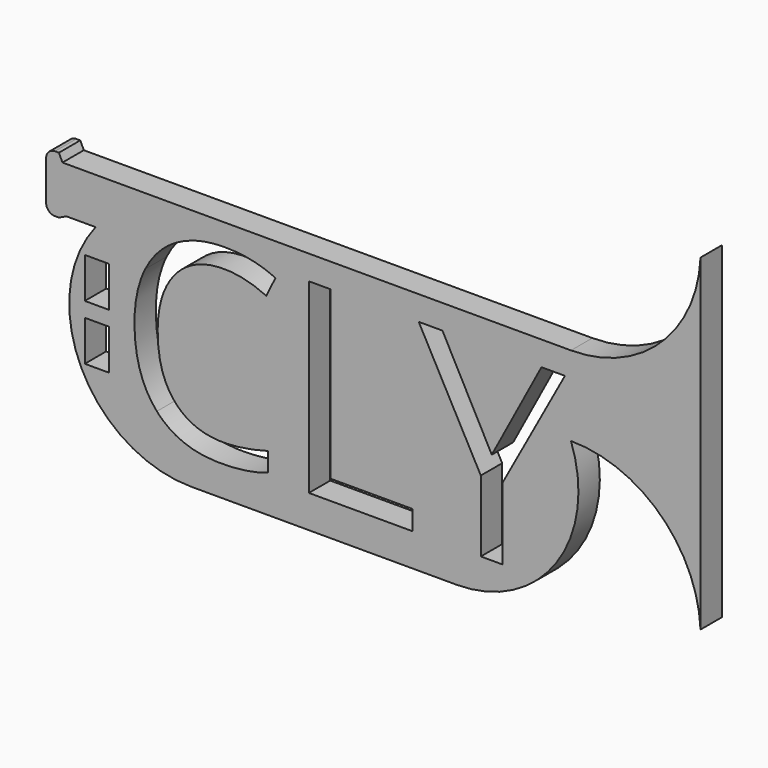
from build123d import *

# Parameters (mm, degrees)
F0_W     = 2.7374038473
F0_H     = 4.5464726281
F1_DEPTH = 3


with BuildPart() as f1:
    # F0 (on Front) → F1 (new body)
    with BuildSketch(Plane.XZ):
        with BuildLine():
            Line((-13.9879264009, 8.4983842463), (-10.7078288449, 8.4983842463))
            ThreePointArc((-10.7078288449, 8.4983842463), (-12.3096819162, -5.9457433928), (0, -13.6704108706))
            Line((0, -13.6704108706), (29.832560569, -13.6704108706))
            ThreePointArc((29.832560569, -13.6704108706), (41.0439649972, -7.8220549805), (42.6626390029, 4.7190275219))
            ThreePointArc((42.6626390029, 4.7190275219), (52.7277631814, 0.6811115523), (57.2114773095, -9.193492122))
            Line((57.2114773095, -9.193492122), (57.2114773095, 27.5829305145))
            ThreePointArc((57.2114773095, 27.5829305145), (52.7277631814, 17.7083268402), (42.6626390029, 13.6704108706))
            Line((42.6626390029, 13.6704108706), (29.832560569, 13.6704108706))
            Line((29.832560569, 13.6704108706), (0, 13.6704108706))
            Line((0, 13.6704108706), (-14.4307379611, 13.6704108706))
            Line((-14.4307379611, 13.6704108706), (-14.8297163701, 14.5122008398))
            Line((-14.8297163701, 14.5122008398), (-15.268201828, 14.5122008398))
            ThreePointArc((-15.268201828, 14.5122008398), (-15.9753086092, 14.219307621), (-16.268201828, 13.5122008398))
            Line((-16.268201828, 13.5122008398), (-16.268201828, 9.0994058373))
            ThreePointArc((-16.268201828, 9.0994058373), (-15.9753086092, 8.3922990562), (-15.268201828, 8.0994058373))
            Line((-15.268201828, 8.0994058373), (-14.8297163701, 8.0994058373))
            Line((-14.8297163701, 8.0994058373), (-13.9879264009, 8.4983842463))
        make_face()
        with Locations((-10.5523099191, -3.12910098)):
            Rectangle(F0_W, F0_H, mode=Mode.SUBTRACT)
        with BuildLine():
            add(Edge.make_bspline(
                [(8.4533115607, 7.9434605246), (6.0766133419, 9.056249864), (3.699915123, 9.056249864)],
                knots=[0, 0, 0, 1, 1, 1], degree=2))
            add(Edge.make_bspline(
                [(3.699915123, 9.056249864), (0.2516419847, 9.056249864), (-1.7449676943, 6.7596907952)],
                knots=[0, 0, 0, 1, 1, 1], degree=2))
            add(Edge.make_bspline(
                [(-1.7449676943, 6.7596907952), (-3.7415773734, 4.4631317263), (-3.7415773734, 0.4699123682)],
                knots=[0, 0, 0, 1, 1, 1], degree=2))
            add(Edge.make_bspline(
                [(-3.7415773734, 0.4699123682), (-3.7415773734, -3.6332121098), (-1.8159480843, -5.8748186187)],
                knots=[0, 0, 0, 1, 1, 1], degree=2))
            add(Edge.make_bspline(
                [(-1.8159480843, -5.8748186187), (0.1096812048, -8.1164251276), (3.672438843, -8.1164251276)],
                knots=[0, 0, 0, 1, 1, 1], degree=2))
            add(Edge.make_bspline(
                [(3.672438843, -8.1164251276), (5.861382482, -8.1164251276), (8.6685424206, -7.328771768)],
                knots=[0, 0, 0, 1, 1, 1], degree=2))
            Line((8.6685424206, -7.328771768), (8.6685424206, -9.458183467))
            add(Edge.make_bspline(
                [(8.6685424206, -9.458183467), (6.4933369217, -10.2778924866), (3.3015090632, -10.2778924866)],
                knots=[0, 0, 0, 1, 1, 1], degree=2))
            add(Edge.make_bspline(
                [(3.3015090632, -10.2778924866), (-1.3190853545, -10.2778924866), (-3.8308752833, -7.4707325479)],
                knots=[0, 0, 0, 1, 1, 1], degree=2))
            add(Edge.make_bspline(
                [(-3.8308752833, -7.4707325479), (-6.3426652121, -4.6635726093), (-6.3426652121, 0.5019680282)],
                knots=[0, 0, 0, 1, 1, 1], degree=2))
            add(Edge.make_bspline(
                [(-6.3426652121, 0.5019680282), (-6.3426652121, 3.7350103066), (-5.1337088927, 6.1666610854)],
                knots=[0, 0, 0, 1, 1, 1], degree=2))
            add(Edge.make_bspline(
                [(-5.1337088927, 6.1666610854), (-3.9247525733, 8.5983118643), (-1.6419316444, 9.9148836136)],
                knots=[0, 0, 0, 1, 1, 1], degree=2))
            add(Edge.make_bspline(
                [(-1.6419316444, 9.9148836136), (0.6408892845, 11.231455363), (3.731970783, 11.231455363)],
                knots=[0, 0, 0, 1, 1, 1], degree=2))
            add(Edge.make_bspline(
                [(3.731970783, 11.231455363), (7.0199656214, 11.231455363), (9.4836720602, 10.0316578036)],
                knots=[0, 0, 0, 1, 1, 1], degree=2))
            Line((9.4836720602, 10.0316578036), (8.4533115607, 7.9434605246))
        make_face(mode=Mode.SUBTRACT)
        with Locations((-10.5523099191, 3.0826488801)):
            Rectangle(F0_W, F0_H, mode=Mode.SUBTRACT)
        Polygon((24.8978651327, -9.9893915467), (13.2341842784, -9.9893915467), (13.2341842784, 10.9337956631), (15.6658350572, 10.9337956631), (15.6658350572, -7.7867097678), (24.8978651327, -7.7867097678), align=None, mode=Mode.SUBTRACT)
        Polygon((28.2316537711, 10.9337956631), (33.7727035684, 0.4699123682), (39.3503884057, 10.9337956631), (41.9835319044, 10.9337956631), (34.9999774078, -1.8747301906), (34.9999774078, -9.9893915467), (32.540850349, -9.9893915467), (32.540850349, -1.9892146906), (25.5710339924, 10.9337956631), align=None, mode=Mode.SUBTRACT)
    extrude(amount=F1_DEPTH)


solid = f1.part
